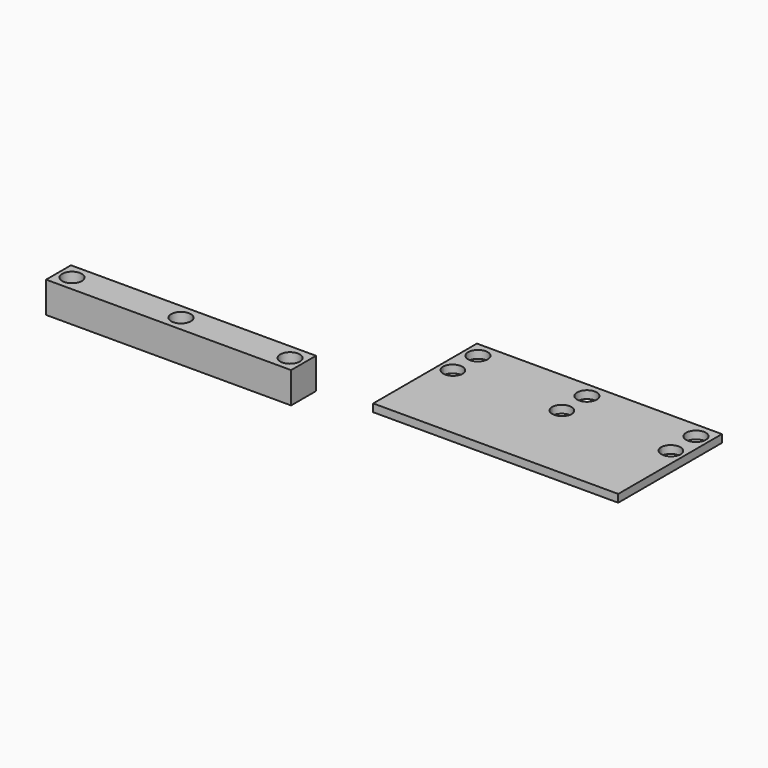
from build123d import *

# Parameters (mm, degrees)
F0_W     = 200
F0_H     = 80
F1_DEPTH = 6.35
F3_D     = 16
F4_W     = 200
F4_H     = 25.4
F5_DEPTH = 25.4
F7_D     = 16
F8_W     = 200
F8_H     = 105.8
F9_DEPTH = 6.35
F11_D    = 16


with BuildPart() as f1:
    # F0 (on Top) → F1 (new body)
    with BuildSketch(Plane.XY):
        with Locations((100, 40)):
            Rectangle(F0_W, F0_H)
    extrude(amount=F1_DEPTH)

    # F3 (through all)
    with Locations(Plane.XY.offset(6.35)):
        with Locations((11, 67.3), (100, 67.3), (189, 67.3)):
            Hole(F3_D / 2)


with BuildPart() as f5:
    # F4 (on Top) → F5 (new body)
    with BuildSketch(Plane.XY):
        with Locations((-146.7235868836, -12.7)):
            Rectangle(F4_W, F4_H)
    extrude(amount=F5_DEPTH)

    # F7 (through all)
    with Locations(Plane.XY.offset(25.4)):
        with Locations((-57.7235868836, -12.7), (-146.7235868836, -12.7), (-235.7235868836, -12.7)):
            Hole(F7_D / 2)


with BuildPart() as f9:
    # F8 (on Top) → F9 (new body)
    with BuildSketch(Plane.XY):
        with Locations((100, 52.9)):
            Rectangle(F8_W, F8_H)
    extrude(amount=F9_DEPTH)

    # F11 (through all)
    with Locations(Plane.XY.offset(6.35)):
        with Locations((11, 93.1), (100, 93.1), (189, 93.1), (189, 67.7), (100, 67.7), (11, 67.7)):
            Hole(F11_D / 2)


solid = Compound([f1.part, f5.part, f9.part])
